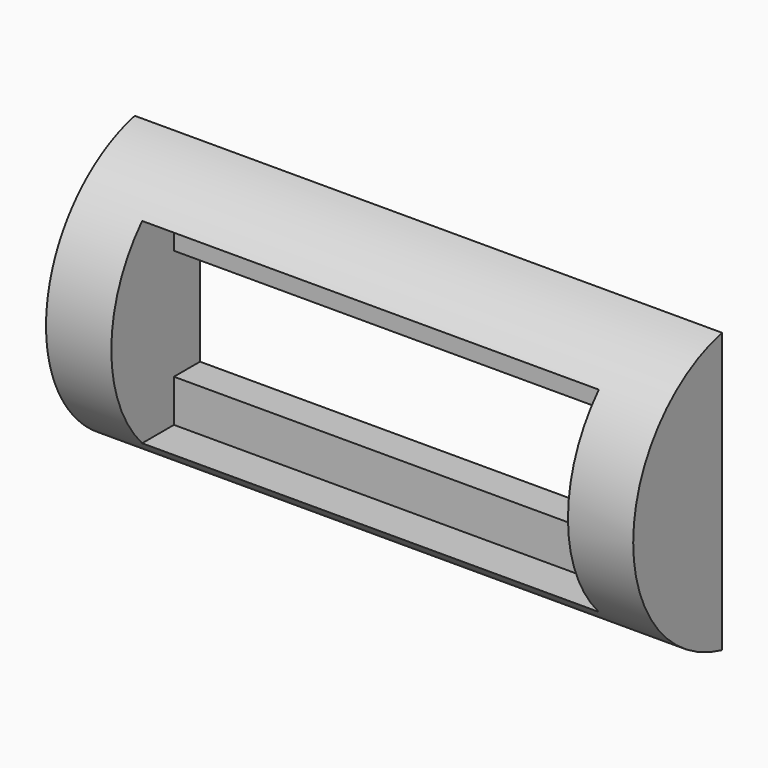
from build123d import *

# Parameters (mm, degrees)
BOX002_W       = 7
BOX002_H       = 1.6
BOX002_DEPTH   = 3
BOX001_W       = 7
BOX001_H       = 5
BOX001_DEPTH   = 1.7
BOX_W          = 10
BOX_H          = 7
BOX_DEPTH      = 10
CYLINDER_R     = 2.2
CYLINDER_DEPTH = 9


with BuildPart() as obj1:
    # Box002 → Box002 (new body)
    with BuildSketch(Plane(origin=(1, -2.6, -1.5), x_dir=(1, 0, 0), z_dir=(0, 0, 1))):
        with Locations((3.5, 0.8)):
            Rectangle(BOX002_W, BOX002_H)
    extrude(amount=BOX002_DEPTH)


with BuildPart() as obj2:
    # Box001 → Box001 (new body)
    with BuildSketch(Plane(origin=(1, -4, -0.85), x_dir=(1, 0, 0), z_dir=(0, 0, 1))):
        with Locations((3.5, 2.5)):
            Rectangle(BOX001_W, BOX001_H)
    extrude(amount=BOX001_DEPTH)


with BuildPart() as obj3:
    # Box → Box (new body)
    with BuildSketch(Plane(origin=(0, -0.5, -4), x_dir=(1, 0, 0), z_dir=(0, 0, 1))):
        with Locations((5, 3.5)):
            Rectangle(BOX_W, BOX_H)
    extrude(amount=BOX_DEPTH)


with BuildPart() as body:
    # Sketch → Revolution (revolve)
    with BuildSketch(Plane.XY):
        with BuildLine():
            add(Edge.make_bspline(
                [(1.699821, 2.2), (2.24, 1.1), (2.24, 0)],
                knots=[-2.2, -2.2, -2.2, 0, 0, 0], degree=2))
            Line((2.24, 0), (1.699821, 0))
            Line((1.699821, 0), (1.699821, 2.2))
        make_face()
    revolve(axis=Axis((0, 0, 0), (1, 0, 0)))


with BuildPart() as body_1:
    # Body placement: moved
    add(body.part.moved(Location((-1.7, 0, 0))))


with BuildPart() as cut003:
    # Cylinder → Cylinder (new body)
    with BuildSketch(Plane(origin=(0, 0, 0), x_dir=(0, 0, -1), z_dir=(1, 0, 0))):
        Circle(CYLINDER_R)
    extrude(amount=CYLINDER_DEPTH)

    # Cut: cut Body
    add(body_1.part, mode=Mode.SUBTRACT)

    # Cut001: cut obj3
    add(obj3.part, mode=Mode.SUBTRACT)

    # Cut002: cut obj2
    add(obj2.part, mode=Mode.SUBTRACT)

    # Cut003: cut obj1
    add(obj1.part, mode=Mode.SUBTRACT)


solid = cut003.part
